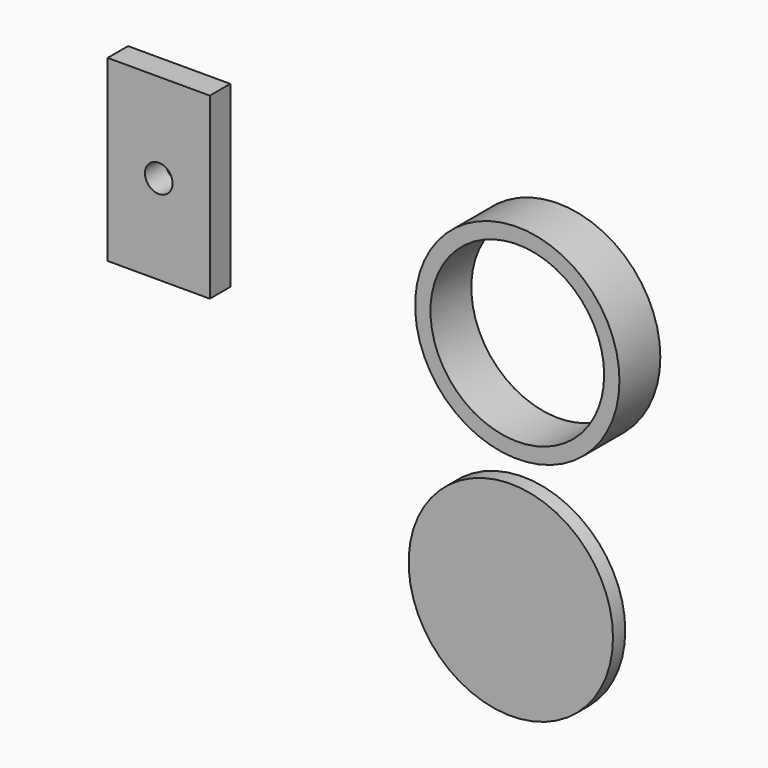
from build123d import *

# Parameters (mm, degrees)
F0_W     = 20
F0_H     = 35
F0_R     = 2.7
F1_DEPTH = 5
F2_R     = 20
F2_R_2   = 17
F3_DEPTH = 10
F4_R     = 20
F5_DEPTH = 3


with BuildPart() as f1:
    # F0 (on Front) → F1 (new body)
    with BuildSketch(Plane.XZ):
        with Locations((-51.033057, 27.181904)):
            Rectangle(F0_W, F0_H)
        with Locations((-51.033057, 27.181904)):
            Circle(F0_R, mode=Mode.SUBTRACT)
    extrude(amount=F1_DEPTH)


with BuildPart() as f3:
    # F2 (on Front) → F3 (new body)
    with BuildSketch(Plane.XZ):
        with Locations((23.145685, 24.960145)):
            Circle(F2_R)
        with Locations((23.145685, 24.960145)):
            Circle(F2_R_2, mode=Mode.SUBTRACT)
    extrude(amount=F3_DEPTH)


with BuildPart() as f5:
    # F4 (on Front) → F5 (new body)
    with BuildSketch(Plane.XZ):
        with Locations((16.278917, -24.388995)):
            Circle(F4_R)
    extrude(amount=F5_DEPTH)


solid = Compound([f1.part, f3.part, f5.part])
